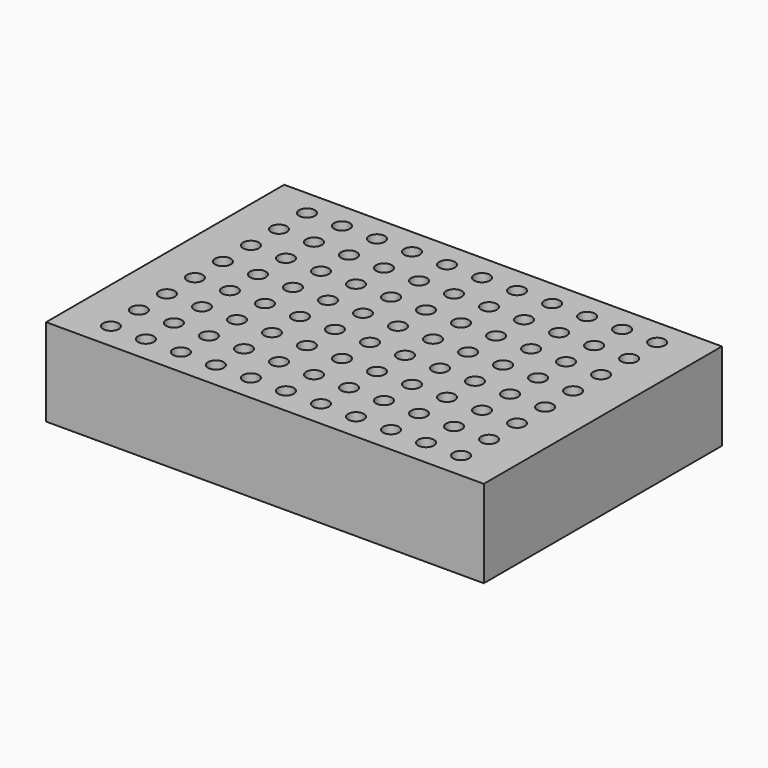
from build123d import *

# Parameters (mm, degrees)
F0_W     = 125
F0_H     = 85
F1_DEPTH = 25
F2_R     = 2.25
F3_DEPTH = 25


with BuildPart() as f1:
    # F0 (on Top) → F1 (new body)
    with BuildSketch(Plane.XY):
        Rectangle(F0_W, F0_H)
    extrude(amount=F1_DEPTH)

    # F2 (on face) → F3 (cut)
    with BuildSketch(Plane.XY.offset(25)):
        with Locations((-50, 35)):
            Circle(F2_R)
        with Locations((-50, 25)):
            Circle(F2_R)
        with Locations((-50, 15)):
            Circle(F2_R)
        with Locations((-50, 5)):
            Circle(F2_R)
        with Locations((-50, -5)):
            Circle(F2_R)
        with Locations((-50, -15)):
            Circle(F2_R)
        with Locations((-50, -25)):
            Circle(F2_R)
        with Locations((-50, -35)):
            Circle(F2_R)
        with Locations((-40, 35)):
            Circle(F2_R)
        with Locations((-40, 25)):
            Circle(F2_R)
        with Locations((-40, 15)):
            Circle(F2_R)
        with Locations((-40, 5)):
            Circle(F2_R)
        with Locations((-40, -5)):
            Circle(F2_R)
        with Locations((-40, -15)):
            Circle(F2_R)
        with Locations((-40, -25)):
            Circle(F2_R)
        with Locations((-40, -35)):
            Circle(F2_R)
        with Locations((-30, 35)):
            Circle(F2_R)
        with Locations((-30, 25)):
            Circle(F2_R)
        with Locations((-30, 15)):
            Circle(F2_R)
        with Locations((-30, 5)):
            Circle(F2_R)
        with Locations((-30, -5)):
            Circle(F2_R)
        with Locations((-30, -15)):
            Circle(F2_R)
        with Locations((-30, -25)):
            Circle(F2_R)
        with Locations((-30, -35)):
            Circle(F2_R)
        with Locations((-20, 35)):
            Circle(F2_R)
        with Locations((-20, 25)):
            Circle(F2_R)
        with Locations((-20, 15)):
            Circle(F2_R)
        with Locations((-20, 5)):
            Circle(F2_R)
        with Locations((-20, -5)):
            Circle(F2_R)
        with Locations((-20, -15)):
            Circle(F2_R)
        with Locations((-20, -25)):
            Circle(F2_R)
        with Locations((-20, -35)):
            Circle(F2_R)
        with Locations((-10, 35)):
            Circle(F2_R)
        with Locations((-10, 25)):
            Circle(F2_R)
        with Locations((-10, 15)):
            Circle(F2_R)
        with Locations((-10, 5)):
            Circle(F2_R)
        with Locations((-10, -5)):
            Circle(F2_R)
        with Locations((-10, -15)):
            Circle(F2_R)
        with Locations((-10, -25)):
            Circle(F2_R)
        with Locations((-10, -35)):
            Circle(F2_R)
        with Locations((0, 35)):
            Circle(F2_R)
        with Locations((0, 25)):
            Circle(F2_R)
        with Locations((0, 15)):
            Circle(F2_R)
        with Locations((0, 5)):
            Circle(F2_R)
        with Locations((0, -5)):
            Circle(F2_R)
        with Locations((0, -15)):
            Circle(F2_R)
        with Locations((0, -25)):
            Circle(F2_R)
        with Locations((0, -35)):
            Circle(F2_R)
        with Locations((10, 35)):
            Circle(F2_R)
        with Locations((10, 25)):
            Circle(F2_R)
        with Locations((10, 15)):
            Circle(F2_R)
        with Locations((10, 5)):
            Circle(F2_R)
        with Locations((10, -5)):
            Circle(F2_R)
        with Locations((10, -15)):
            Circle(F2_R)
        with Locations((10, -25)):
            Circle(F2_R)
        with Locations((10, -35)):
            Circle(F2_R)
        with Locations((20, 35)):
            Circle(F2_R)
        with Locations((20, 25)):
            Circle(F2_R)
        with Locations((20, 15)):
            Circle(F2_R)
        with Locations((20, 5)):
            Circle(F2_R)
        with Locations((20, -5)):
            Circle(F2_R)
        with Locations((20, -15)):
            Circle(F2_R)
        with Locations((20, -25)):
            Circle(F2_R)
        with Locations((20, -35)):
            Circle(F2_R)
        with Locations((30, 35)):
            Circle(F2_R)
        with Locations((30, 25)):
            Circle(F2_R)
        with Locations((30, 15)):
            Circle(F2_R)
        with Locations((30, 5)):
            Circle(F2_R)
        with Locations((30, -5)):
            Circle(F2_R)
        with Locations((30, -15)):
            Circle(F2_R)
        with Locations((30, -25)):
            Circle(F2_R)
        with Locations((30, -35)):
            Circle(F2_R)
        with Locations((40, 35)):
            Circle(F2_R)
        with Locations((40, 25)):
            Circle(F2_R)
        with Locations((40, 15)):
            Circle(F2_R)
        with Locations((40, 5)):
            Circle(F2_R)
        with Locations((40, -5)):
            Circle(F2_R)
        with Locations((40, -15)):
            Circle(F2_R)
        with Locations((40, -25)):
            Circle(F2_R)
        with Locations((40, -35)):
            Circle(F2_R)
        with Locations((50, 35)):
            Circle(F2_R)
        with Locations((50, 25)):
            Circle(F2_R)
        with Locations((50, 15)):
            Circle(F2_R)
        with Locations((50, 5)):
            Circle(F2_R)
        with Locations((50, -5)):
            Circle(F2_R)
        with Locations((50, -15)):
            Circle(F2_R)
        with Locations((50, -25)):
            Circle(F2_R)
        with Locations((50, -35)):
            Circle(F2_R)
    extrude(amount=-F3_DEPTH, mode=Mode.SUBTRACT)


solid = f1.part
